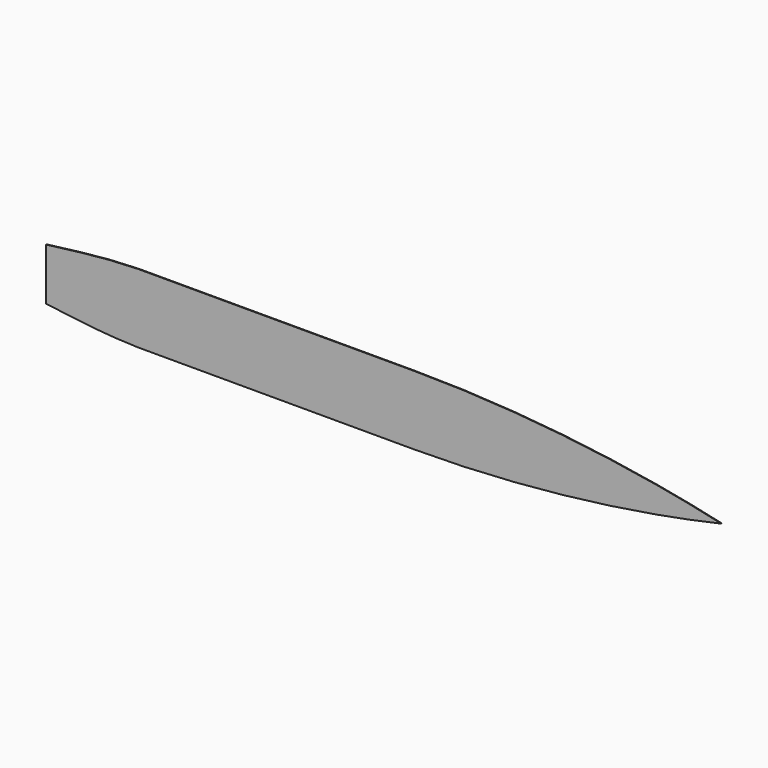
from build123d import *

# Parameters (mm, degrees)
F1_DEPTH = 4


with BuildPart() as f1:
    # F0 (on Front) → F1 (new body)
    with BuildSketch(Plane.XZ):
        with BuildLine():
            add(Edge.make_bspline(
                [(-2200, -170), (-1932.7597609139, -203.2051715903), (-1814.6882099383, -219.4663266624), (-1600, -225)],
                knots=[0.7736709271, 0.7736709271, 0.7736709271, 0.7736709271, 1, 1, 1, 1], degree=3))
            Line((-1600, -225), (200, -225))
            add(Edge.make_bspline(
                [(200, -225), (815.9378769801, -225), (1532.8613179389, -152.794348802), (2200, 0)],
                knots=[0, 0, 0, 0, 0.5113095032, 0.5113095032, 0.5113095032, 0.5113095032], degree=3))
            add(Edge.make_bspline(
                [(200, 225), (815.9378769801, 225), (1532.8613179389, 152.794348802), (2200, 0)],
                knots=[0, 0, 0, 0, 0.5113095032, 0.5113095032, 0.5113095032, 0.5113095032], degree=3))
            Line((200, 225), (-1600, 225))
            add(Edge.make_bspline(
                [(-1600, 225), (-1814.6882099383, 219.4663266624), (-1932.7597609139, 203.2051715903), (-2200, 170)],
                knots=[0, 0, 0, 0, 0.2263290729, 0.2263290729, 0.2263290729, 0.2263290729], degree=3))
            Line((-2200, 170), (-2200, -170))
        make_face()
    extrude(amount=F1_DEPTH)


solid = f1.part
